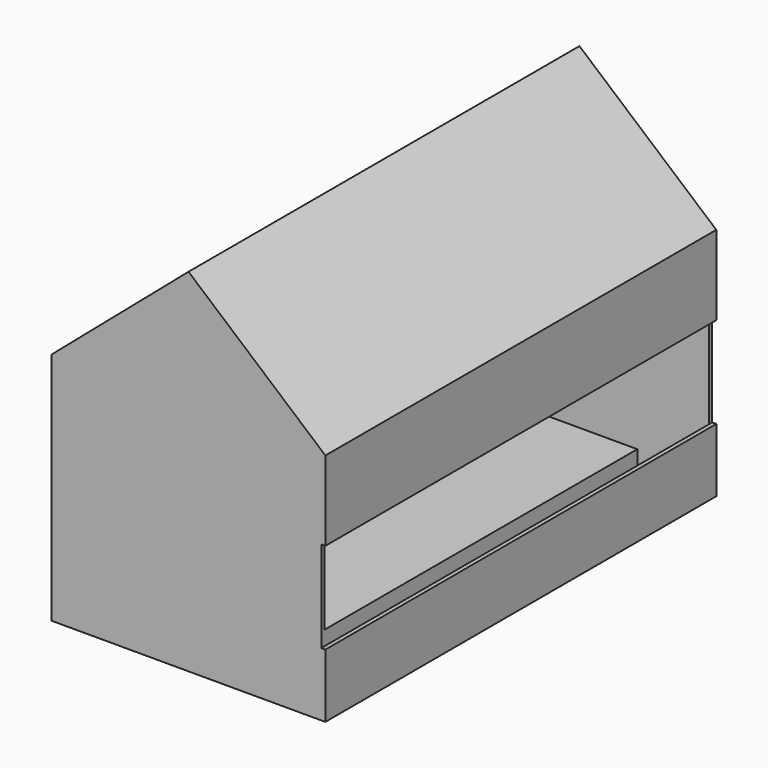
from build123d import *

# Parameters (mm, degrees)
F1_DEPTH = 63.5
F3_DEPTH = 0.5334
F5_DEPTH = 0.5334
F7_DEPTH = 63.5
F8_W     = 22.86
F8_H     = 50.8
F9_DEPTH = 10.16


with BuildPart() as f1:
    # F0 (on Front) → F1 (new body)
    with BuildSketch(Plane.XZ):
        Polygon((0, 30.48), (0, 0), (35.56, 0), (35.56, 8.27462), (35.0266, 8.27462), (35.0266, 0.5334), (0.5334, 0.5334), (0.5334, 30.234671), (17.78, 45.017471), (35.0266, 30.234671), (35.0266, 20.142561), (35.56, 20.142561), (35.56, 30.48), (17.78, 45.72), align=None)
    extrude(amount=F1_DEPTH)

    # F2 (on face) → F3 (join)
    with BuildSketch(Plane.XZ.offset(63.5)):
        Polygon((35.0266, 0.5334), (35.0266, 30.234671), (17.78, 45.017471), (0.5334, 30.234671), (0.5334, 0.5334), align=None)
    extrude(amount=-F3_DEPTH)

    # F4 (on face) → F5 (join)
    with BuildSketch(Plane(origin=(0, 0, 0), x_dir=(-1, 0, 0), z_dir=(0, 1, 0))):
        Polygon((-35.0266, 30.234671), (-35.0266, 0.5334), (-0.5334, 0.5334), (-0.5334, 30.234671), (-17.78, 45.017471), align=None)
    extrude(amount=-F5_DEPTH)

    # F6 (on face) → F7 (join)
    with BuildSketch(Plane.XZ.offset(63.5)):
        Polygon((12.1666, 40.908514), (12.1666, 0), (12.7, 0), (12.7, 41.365714), align=None)
    extrude(amount=-F7_DEPTH)

    # F8 (on Top) → F9 (join)
    with BuildSketch(Plane.XY):
        with Locations((23.5966, -37.5666)):
            Rectangle(F8_W, F8_H)
    extrude(amount=F9_DEPTH)


solid = f1.part
